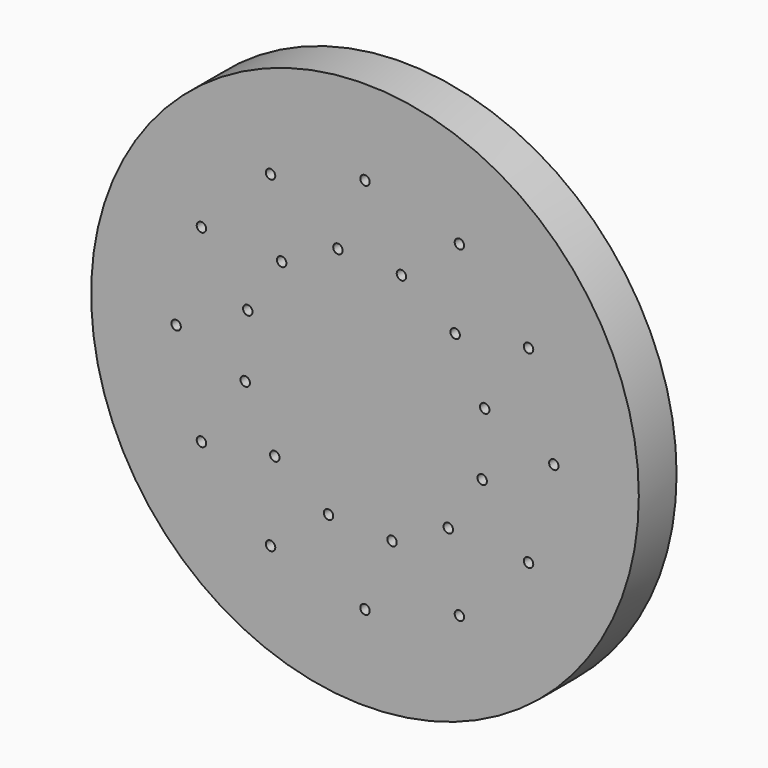
from build123d import *

# Parameters (mm, degrees)
F0_R     = 29
F0_R_2   = 0.5
F1_DEPTH = 5


with BuildPart() as f1:
    # F0 (on Front) → F1 (new body)
    with BuildSketch(Plane.XZ):
        Circle(F0_R)
        with Locations((-10, -17.320508)):
            Circle(F0_R_2, mode=Mode.SUBTRACT)
        with Locations((-17.320508, -10)):
            Circle(F0_R_2, mode=Mode.SUBTRACT)
        with Locations((-9.549717, -8.820595)):
            Circle(F0_R_2, mode=Mode.SUBTRACT)
        with Locations((-3.86, -12.413718)):
            Circle(F0_R_2, mode=Mode.SUBTRACT)
        with Locations((-12.680595, -2.864001)):
            Circle(F0_R_2, mode=Mode.SUBTRACT)
        with Locations((0, -20)):
            Circle(F0_R_2, mode=Mode.SUBTRACT)
        with Locations((10, -17.320508)):
            Circle(F0_R_2, mode=Mode.SUBTRACT)
        with Locations((2.864001, -12.680595)):
            Circle(F0_R_2, mode=Mode.SUBTRACT)
        with Locations((8.820595, -9.549717)):
            Circle(F0_R_2, mode=Mode.SUBTRACT)
        with Locations((12.413718, -3.86)):
            Circle(F0_R_2, mode=Mode.SUBTRACT)
        with Locations((17.320508, -10)):
            Circle(F0_R_2, mode=Mode.SUBTRACT)
        with Locations((-20, 0)):
            Circle(F0_R_2, mode=Mode.SUBTRACT)
        with Locations((-17.320508, 10)):
            Circle(F0_R_2, mode=Mode.SUBTRACT)
        with Locations((-12.413718, 3.86)):
            Circle(F0_R_2, mode=Mode.SUBTRACT)
        with Locations((-8.820595, 9.549717)):
            Circle(F0_R_2, mode=Mode.SUBTRACT)
        with Locations((-2.864001, 12.680595)):
            Circle(F0_R_2, mode=Mode.SUBTRACT)
        with Locations((-10, 17.320508)):
            Circle(F0_R_2, mode=Mode.SUBTRACT)
        with Locations((12.680595, 2.864001)):
            Circle(F0_R_2, mode=Mode.SUBTRACT)
        with Locations((3.86, 12.413718)):
            Circle(F0_R_2, mode=Mode.SUBTRACT)
        with Locations((9.549717, 8.820595)):
            Circle(F0_R_2, mode=Mode.SUBTRACT)
        with Locations((20, 0)):
            Circle(F0_R_2, mode=Mode.SUBTRACT)
        with Locations((17.320508, 10)):
            Circle(F0_R_2, mode=Mode.SUBTRACT)
        with Locations((0, 20)):
            Circle(F0_R_2, mode=Mode.SUBTRACT)
        with Locations((10, 17.320508)):
            Circle(F0_R_2, mode=Mode.SUBTRACT)
    extrude(amount=F1_DEPTH)


solid = f1.part
